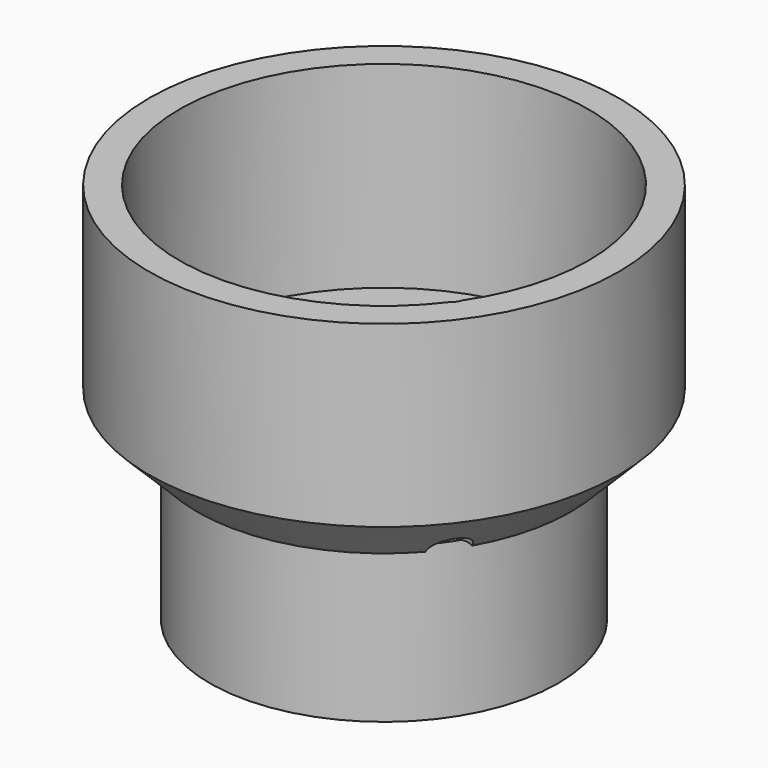
from build123d import *

# Parameters (mm, degrees)
F0_R     = 29.21
F1_DEPTH = 25.908
F2_R     = 39.37
F3_DEPTH = 38.1
F4_T     = -5.08
F5_SIZE  = 8.128
F7_D     = 6.35
F7_DEPTH = 38.101


with BuildPart() as f1:
    # F0 (on Top) → F1 (new body)
    with BuildSketch(Plane.XY):
        Circle(F0_R)
    extrude(amount=-F1_DEPTH)

    # F2 (on Top) → F3 (join)
    with BuildSketch(Plane.XY):
        Circle(F2_R)
    extrude(amount=F3_DEPTH)

    # F4
    f4_openings = [f1.faces().sort_by_distance(p)[0] for p in [
        (0, 0, 38.1),
        (0, 0, -25.908),
    ]]
    offset(amount=F4_T, openings=f4_openings, kind=Kind.INTERSECTION)

    # F5
    f5_edges = [f1.edges().sort_by_distance(p)[0] for p in [
        (-39.37, 0, 0),
    ]]
    chamfer(f5_edges, length=F5_SIZE)

    # F7 (through all, one way)
    with BuildSketch(Plane(origin=(0, 0, 0), x_dir=(1, 0, 0), z_dir=(0, 0, -1))):
        with Locations((25.4209353007, 18.1614595349)):
            Circle(F7_D / 2)
    extrude(amount=-F7_DEPTH, mode=Mode.SUBTRACT)


solid = f1.part
